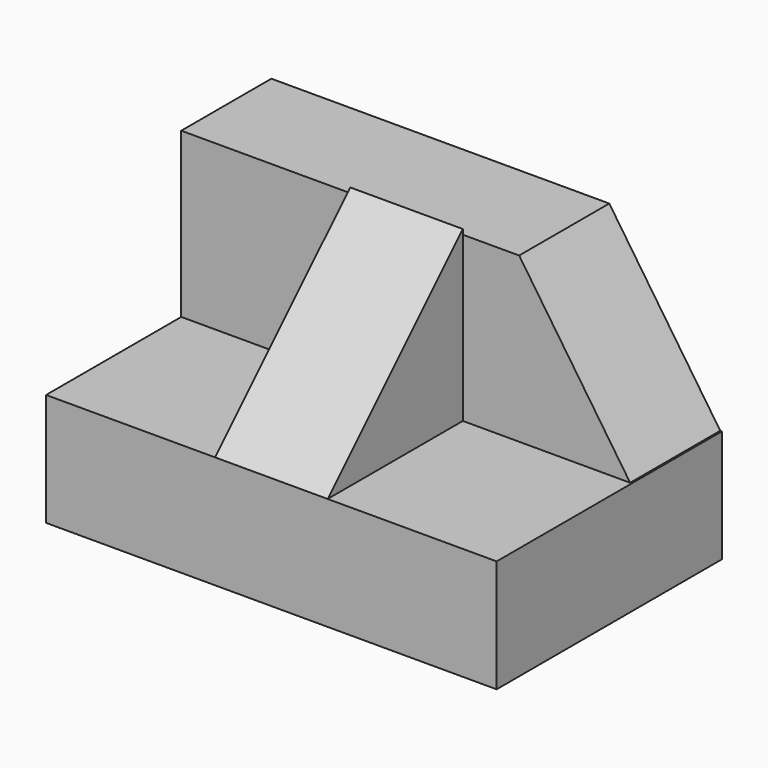
from build123d import *

# Parameters (mm, degrees)
F0_W     = 50.8
F0_H     = 12.7
F1_DEPTH = 31.75
F3_DEPTH = 12.7
F4_W     = 12.7
F4_H     = 19.05
F5_DEPTH = 19.05
F6_DEPTH = 19.05
F8_DEPTH = 50.8


with BuildPart() as f1:
    # F0 (on Front) → F1 (new body)
    with BuildSketch(Plane.XZ):
        with Locations((25.4, 6.35)):
            Rectangle(F0_W, F0_H)
    extrude(amount=F1_DEPTH)

    # F2 (on Front) → F3 (join)
    with BuildSketch(Plane.XZ):
        Polygon((0, 12.135556), (50.79918, 12.424188), (38.1, 31.185556), (0, 31.185556), align=None)
    extrude(amount=F3_DEPTH)

    # F4 (on face) → F5 (join)
    with BuildSketch(Plane.XY.offset(12.7)):
        with Locations((25.4, -22.225)):
            Rectangle(F4_W, F4_H)
    extrude(amount=F5_DEPTH)

    # F4 (on face) → F6 (join)
    with BuildSketch(Plane.XY.offset(12.7)):
        with Locations((25.4, -22.225)):
            Rectangle(F4_W, F4_H)
    extrude(amount=F6_DEPTH)

    # F7 (on face) → F8 (cut)
    with BuildSketch(Plane.YZ.offset(31.75)):
        Polygon((-31.75, 12.7), (-12.7, 31.75), (-31.75, 31.75), align=None)
    extrude(amount=-F8_DEPTH, mode=Mode.SUBTRACT)


solid = f1.part
